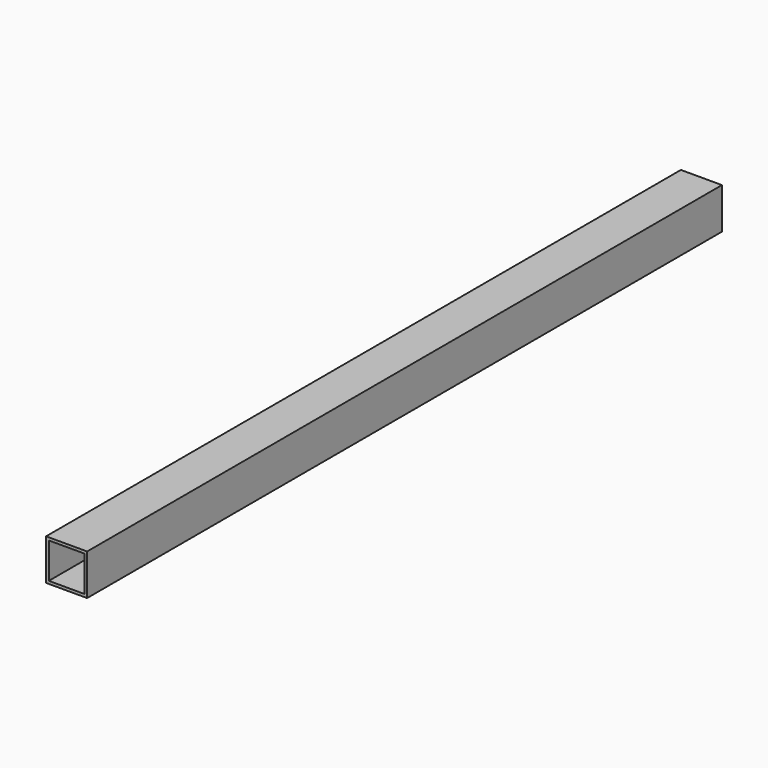
from build123d import *

# Parameters (mm, degrees)
SKETCH002_W   = 30
SKETCH002_H   = 30
SKETCH002_W_2 = 26
SKETCH002_H_2 = 26
PAD002_DEPTH  = 580


with BuildPart() as part:
    # Sketch002 → Pad002 (new body)
    with BuildSketch(Plane.XZ):
        with Locations((15, -15)):
            Rectangle(SKETCH002_W, SKETCH002_H)
        with Locations((15, -15)):
            Rectangle(SKETCH002_W_2, SKETCH002_H_2, mode=Mode.SUBTRACT)
    extrude(amount=PAD002_DEPTH)


solid = part.part
